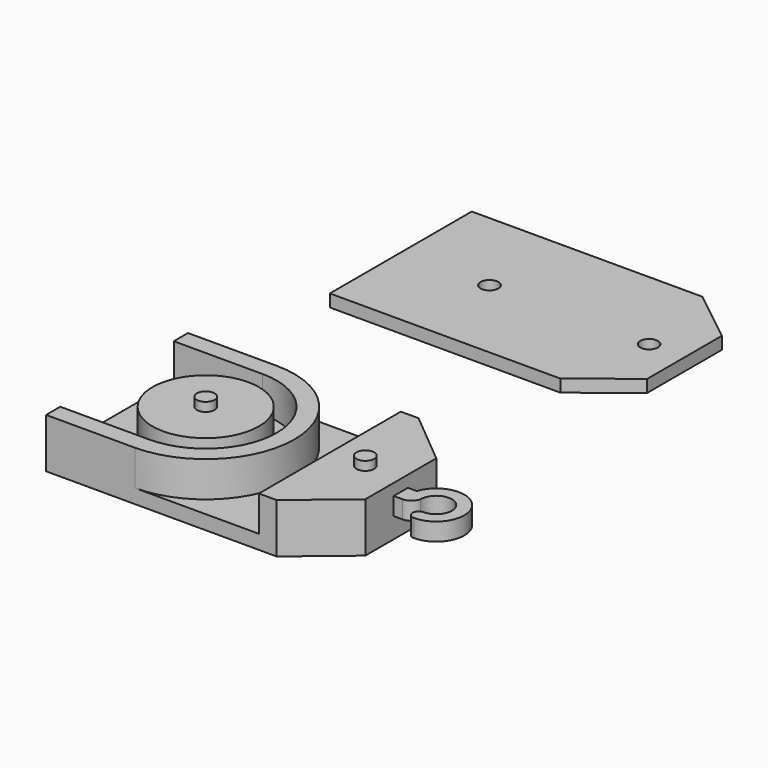
from build123d import *

# Parameters (mm, degrees)
F1_DEPTH  = 0.8
F2_R      = 3
F3_DEPTH  = 2
F4_R      = 0.5
F5_DEPTH  = 0.5
F6_R      = 0.5
F7_DEPTH  = 0.5
F9_DEPTH  = 5
F11_DEPTH = 25
F13_DEPTH = 0.7
F14_R     = 0.5
F15_DEPTH = 25


with BuildPart() as f1:
    # F0 (on Top) → F1 (new body)
    with BuildSketch(Plane.XY):
        Polygon((13, 0), (0, 0), (0, -10), (13, -10), (16, -7.5), (16, -2.5), align=None)
    extrude(amount=F1_DEPTH)

    # F2 (on face) → F3 (join)
    with BuildSketch(Plane.XY.offset(0.8)):
        with Locations((5, -5)):
            Circle(F2_R)
        Polygon((13, -10), (16, -7.5), (16, -2.5), (13, 0), (12, 0), (12, -10), align=None)
        with BuildLine():
            ThreePointArc((5, -10), (10, -5), (5, 0))
            Line((5, 0), (0, 0))
            Line((0, 0), (0, -1))
            Line((0, -1), (5, -1))
            ThreePointArc((5, -1), (9, -5), (5, -9))
            Line((5, -9), (0, -9))
            Line((0, -9), (0, -10))
            Line((0, -10), (5, -10))
        make_face()
    extrude(amount=F3_DEPTH)

    # F4 (on face) → F5 (join)
    with BuildSketch(Plane.XY.offset(2.8)):
        with Locations((5, -5)):
            Circle(F4_R)
    extrude(amount=F5_DEPTH)

    # F6 (on face) → F7 (join)
    with BuildSketch(Plane.XY.offset(2.8)):
        with Locations((14, -5)):
            Circle(F6_R)
    extrude(amount=F7_DEPTH)

    # F8 (on face) → F9 (join)
    with BuildSketch(Plane.YZ.offset(16)):
        Polygon((-7.5, 2.15), (-7.5, 1.65), (-7.5, 1.15), (-2.5, 1.15), (-2.5, 2.15), align=None)
    extrude(amount=F9_DEPTH)

    # F10 (on face) → F11 (cut)
    with BuildSketch(Plane.XY.offset(2.15)):
        with BuildLine():
            Line((16, -2.5), (16, -4.5))
            Line((16, -4.5), (16.5, -4.5))
            ThreePointArc((16.5, -4.5), (19.282687, -4.075492), (18, -6.581139))
            ThreePointArc((18, -6.581139), (17.65, -6.231139), (18, -5.881139))
            ThreePointArc((18, -5.881139), (18.623059, -4.376941), (17.118861, -5))
            ThreePointArc((17.118861, -5), (16.897803, -5.359381), (16.5, -5.5))
            Line((16.5, -5.5), (16, -5.5))
            Line((16, -5.5), (16, -7.5))
            Line((16, -7.5), (21, -7.5))
            Line((21, -7.5), (21, -2.5))
            Line((21, -2.5), (16, -2.5))
        make_face()
    extrude(amount=-F11_DEPTH, mode=Mode.SUBTRACT)


with BuildPart() as f13:
    # F12 (on Top) → F13 (new body)
    with BuildSketch(Plane.XY):
        Polygon((0, 20), (0, 10), (13, 10), (16, 12.368282), (16, 17.631718), (13, 20), align=None)
    extrude(amount=F13_DEPTH)

    # F14 (on face) → F15 (cut)
    with BuildSketch(Plane.XY.offset(0.7)):
        with Locations((5, 15)):
            Circle(F14_R)
        with Locations((14, 15)):
            Circle(F14_R)
    extrude(amount=-F15_DEPTH, mode=Mode.SUBTRACT)


solid = Compound([f1.part, f13.part])
